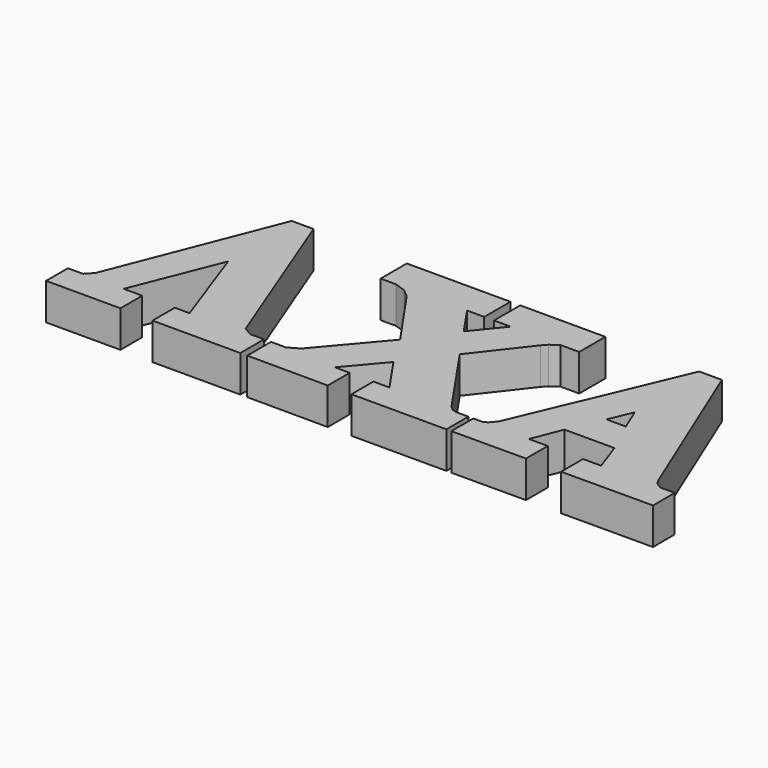
from build123d import *

# Parameters (mm, degrees)
F1_DEPTH = 6.35


with BuildPart() as f1:
    # F0 (on Top) → F1 (new body)
    with BuildSketch(Plane.XY):
        Polygon((-19.981539, -8.046458), (-19.981539, -13.195748), (-5.98926, -13.236965), (-5.98926, -8.470381), (-8.572991, -8.470381), (-3.344021, -2.296537), (0.896977, -8.470381), (-1.880025, -8.470381), (-1.880025, -13.236965), (14.589133, -13.236965), (14.589133, -8.470381), (12.499607, -8.470381), (11.696933, -8.241038), (10.964676, -7.609094), (2.247979, 5.080258), (9.134103, 13.952066), (9.905493, 14.800598), (11.255423, 15.715738), (14.456687, 15.715738), (14.456687, 21.400725), (-0.315413, 21.400725), (-0.315413, 15.715738), (2.577296, 15.715738), (-1.530858, 10.673677), (-4.991709, 15.715738), (-2.00788, 15.715738), (-2.00788, 21.400725), (-19.981539, 21.400725), (-19.981539, 15.715738), (-17.318199, 15.715738), (-15.398286, 15.062143), (-14.050263, 13.959219), (-6.740522, 3.397425), (-15.536637, -6.988148), (-17.358318, -8.046458), align=None)
        Polygon((-36.161034, 21.400725), (-39.950131, 21.400725), (-51.174576, -7.134954), (-52.322714, -8.362214), (-54.951227, -8.362214), (-54.951227, -13.093854), (-42.060575, -13.093854), (-42.060575, -8.362214), (-45.281222, -8.362214), (-39.253278, 6.76993), (-33.862403, -8.362214), (-36.412755, -8.362214), (-36.412755, -13.195748), (-21.183506, -13.195748), (-21.183506, -8.046458), (-23.588123, -8.046458), (-25.085217, -7.163222), align=None)
        Polygon((28.354799, -8.470381), (25.079075, -8.470381), (27.136799, -3.310556), (35.796387, -3.310556), (37.611833, -8.470381), (34.47547, -8.470381), (34.47547, -13.236965), (50.390555, -13.195748), (50.375467, -8.470381), (47.866376, -8.470381), (46.814429, -7.806331), (46.339104, -6.988148), (34.663057, 21.400725), (30.735785, 21.400725), (18.678911, -6.988148), (17.78257, -8.046458), (17.165443, -8.470381), (15.446499, -8.470381), (15.446499, -13.236965), (28.354799, -13.195748), align=None)
        Polygon((29.696888, 2.580525), (31.399475, 6.589403), (33.048285, 2.580525), align=None, mode=Mode.SUBTRACT)
    extrude(amount=F1_DEPTH)


solid = f1.part
